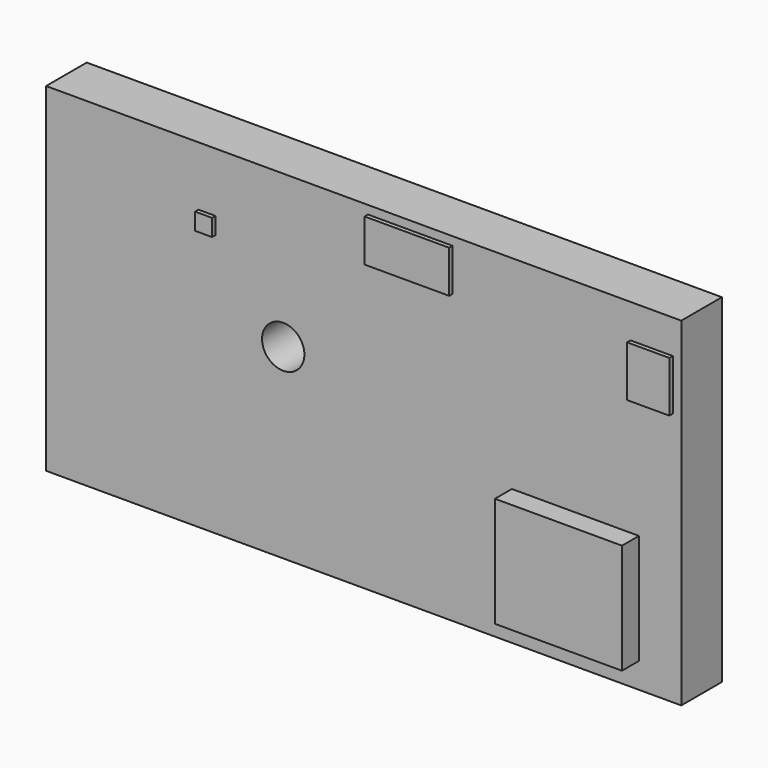
from build123d import *

# Parameters (mm, degrees)
F0_W     = 75
F0_H     = 40
F0_R     = 2.5
F1_DEPTH = 6
F2_W     = 10
F2_H     = 5
F2_W_2   = 5
F2_H_2   = 6
F2_W_3   = 2
F2_H_3   = 2
F3_DEPTH = 0.5
F4_W     = 15
F4_H     = 13
F5_DEPTH = 2.5


with BuildPart() as f1:
    # F0 (on Front) → F1 (new body)
    with BuildSketch(Plane.XZ):
        Rectangle(F0_W, F0_H)
        with Locations((-9.5, 2)):
            Circle(F0_R, mode=Mode.SUBTRACT)
    extrude(amount=F1_DEPTH)

    # F2 (on face) → F3 (join)
    with BuildSketch(Plane.XZ.offset(6)):
        with Locations((5.5, 16.5)):
            Rectangle(F2_W, F2_H)
        with Locations((34, 13)):
            Rectangle(F2_W_2, F2_H_2)
        with Locations((-18.5, 12)):
            Rectangle(F2_W_3, F2_H_3)
    extrude(amount=F3_DEPTH)

    # F4 (on face) → F5 (join)
    with BuildSketch(Plane.XZ.offset(6)):
        with Locations((25, -10.5)):
            Rectangle(F4_W, F4_H)
    extrude(amount=F5_DEPTH)


solid = f1.part
